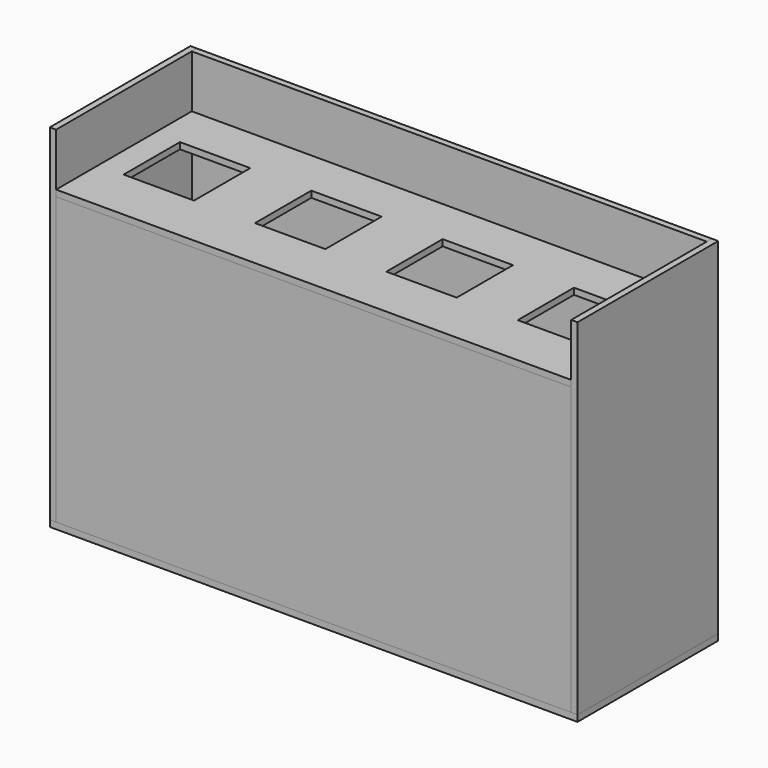
from build123d import *

# Parameters (mm, degrees)
SKETCH_W            = 1500
SKETCH_H            = 500
PAD_DEPTH           = 18
SKETCH001_W         = 18
SKETCH001_H         = 500
PAD001_DEPTH        = 982
SKETCH002_W         = 18
SKETCH002_H         = 500
PAD002_DEPTH        = 982
SKETCH003_W         = 1464
SKETCH003_H         = 18
PAD003_DEPTH        = 982
SKETCH004_W         = 1464
SKETCH004_H         = 18
PAD004_DEPTH        = 814
SKETCH005_W         = 1464
SKETCH005_H         = 18
PAD005_DEPTH        = 482
SKETCH006_W         = 200
SKETCH006_H         = 200
POCKET_DEPTH        = 3100.820489
LINEARPATTERN_COUNT = 4
LINEARPATTERN_PITCH = 373.333333


with BuildPart() as boden:
    # Sketch → Pad (new body)
    with BuildSketch(Plane.XY):
        Rectangle(SKETCH_W, SKETCH_H)
    extrude(amount=PAD_DEPTH)


with BuildPart() as wandrechts:
    # Sketch001 (on Face1 of ShapeBinder) → Pad001 (new body)
    with BuildSketch(Plane.XY.offset(18)):
        with Locations((741, 0)):
            Rectangle(SKETCH001_W, SKETCH001_H)
    extrude(amount=PAD001_DEPTH)


with BuildPart() as wandlinks:
    # Sketch002 (on Face1 of ShapeBinder001) → Pad002 (new body)
    with BuildSketch(Plane.XY.offset(18)):
        with Locations((-741, 0)):
            Rectangle(SKETCH002_W, SKETCH002_H)
    extrude(amount=PAD002_DEPTH)


with BuildPart() as obj1:
    # Sketch003 (on Face1 of ShapeBinder002) → Pad003 (new body)
    with BuildSketch(Plane.XY.offset(18)):
        with Locations((0, 241)):
            Rectangle(SKETCH003_W, SKETCH003_H)
    extrude(amount=PAD003_DEPTH)


with BuildPart() as obj2:
    # Sketch004 (on Face1 of ShapeBinder003) → Pad004 (new body)
    with BuildSketch(Plane.XY.offset(18)):
        with Locations((0, -241)):
            Rectangle(SKETCH004_W, SKETCH004_H)
    extrude(amount=PAD004_DEPTH)


with BuildPart() as obj3:
    # Sketch005 (on Face1 of ShapeBinder004) → Pad005 (new body)
    with BuildSketch(Plane(origin=(0, 232, 18), x_dir=(1, 0, 0), z_dir=(0, -1, 0))):
        with Locations((0, 823)):
            Rectangle(SKETCH005_W, SKETCH005_H)
    extrude(amount=PAD005_DEPTH)

    # Sketch006 (on Face1 of Pad005) → Pocket (cut, through all)
    with BuildSketch(Plane.XY.offset(850)):
        with Locations((-560, 0)):
            Rectangle(SKETCH006_W, SKETCH006_H)
    pocket = extrude(amount=-POCKET_DEPTH, mode=Mode.SUBTRACT)

    # LinearPattern: Pocket ×4
    with Locations(*[(i * LINEARPATTERN_PITCH, 0, 0) for i in range(1, LINEARPATTERN_COUNT)]):
        add(pocket, mode=Mode.SUBTRACT)


solid = Compound([boden.part, wandrechts.part, wandlinks.part, obj1.part, obj2.part, obj3.part])
